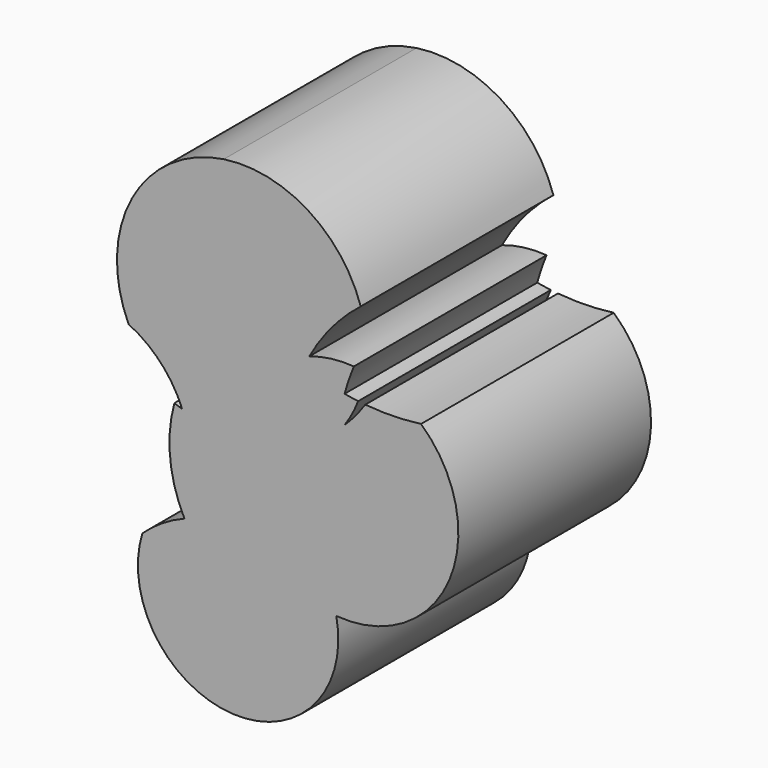
from build123d import *

# Parameters (mm, degrees)
F1_DEPTH = 25.4


with BuildPart() as f1:
    # F0 (on Front) → F1 (new body)
    with BuildSketch(Plane.XZ):
        with BuildLine():
            ThreePointArc((-16.513216, 43.049148), (-26.195994, 36.279159), (-26.559999, 24.469991))
            ThreePointArc((-26.559999, 24.469991), (-23.612281, 22.442675), (-21.448272, 19.593795))
            ThreePointArc((-21.448272, 19.593795), (-21.165753, 19.026637), (-20.915549, 18.444501))
            ThreePointArc((-20.915549, 18.444501), (-20.912799, 18.437567), (-20.910054, 18.430631))
            ThreePointArc((-20.910054, 18.430631), (-21.318885, 18.566069), (-21.724175, 18.711757))
            ThreePointArc((-21.724175, 18.711757), (-22.174114, 13.422676), (-20.669998, 8.332051))
            ThreePointArc((-20.669998, 8.332051), (-23.018125, 7.130784), (-25.1052, 5.518067))
            ThreePointArc((-25.1052, 5.518067), (-15.529674, -8.146325), (-4.646679, 4.50147))
            ThreePointArc((-4.646679, 4.50147), (7.250734, 11.666572), (4.286682, 25.234973))
            ThreePointArc((4.286682, 25.234973), (1.349789, 25.007459), (-1.593968, 25.114212))
            ThreePointArc((-1.593968, 25.114212), (-2.619774, 23.756453), (-3.775427, 22.507351))
            ThreePointArc((-3.775427, 22.507351), (-2.980585, 23.809554), (-2.341596, 25.194905))
            ThreePointArc((-2.341596, 25.194905), (-3.060024, 25.293199), (-3.775427, 25.411526))
            ThreePointArc((-3.775427, 25.411526), (-3.329014, 26.854447), (-2.799791, 28.269095))
            ThreePointArc((-2.799791, 28.269095), (-5.177523, 28.210416), (-7.496269, 27.680819))
            ThreePointArc((-7.496269, 27.680819), (-5.112054, 31.158026), (-2.073727, 34.081041))
            ThreePointArc((-2.073727, 34.081041), (-7.654003, 41.204792), (-16.513216, 43.049148))
        make_face()
    extrude(amount=F1_DEPTH)


solid = f1.part
